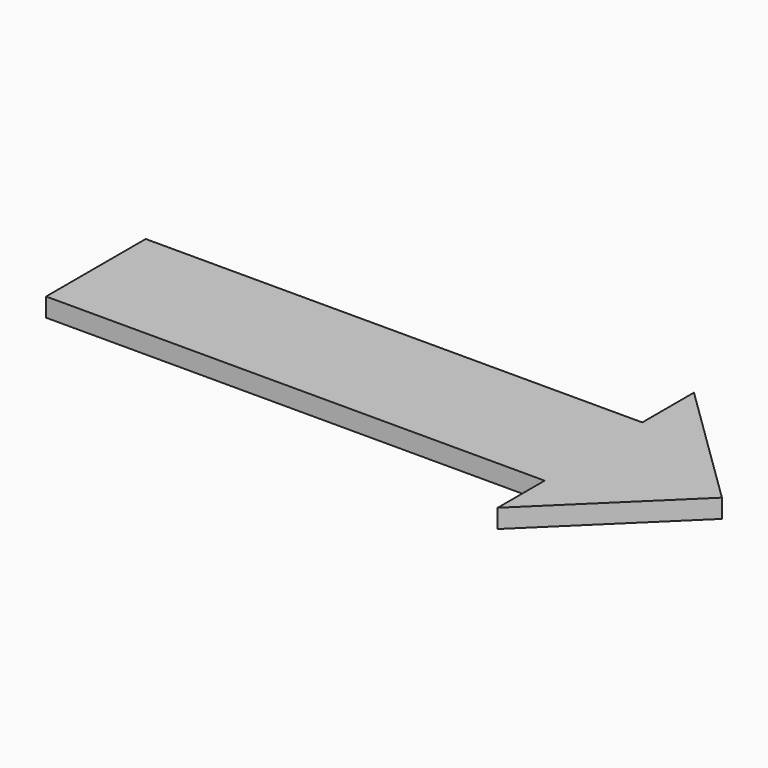
from build123d import *

# Parameters (mm, degrees)
PAD_DEPTH = 3


with BuildPart() as part:
    # Sketch → Pad (new body)
    with BuildSketch(Plane.XY):
        Polygon((-39.905933, -10.263489), (40.018764, -10.263489), (40.018764, -19.679684), (60.225914, 0), (39.698601, 20.056664), (39.698601, 9.69885), (-39.905933, 9.69885), align=None)
    extrude(amount=PAD_DEPTH)


solid = part.part
